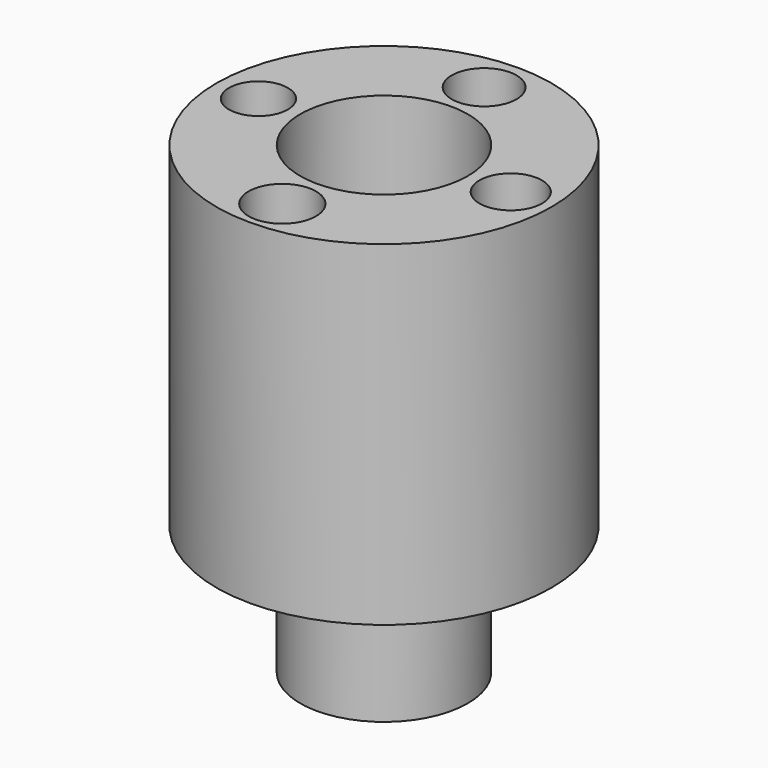
from build123d import *

# Parameters (mm, degrees)
F0_R     = 6.35
F0_R_2   = 4.0005
F1_DEPTH = 9.779
F0_R_3   = 12.7
F0_R_4   = 2.554087
F0_R_5   = 2.227925
F0_R_6   = 2.37351
F0_R_7   = 2.455152
F2_DEPTH = 25.4


with BuildPart() as f1:
    # F0 (on Top) → F1 (new body)
    with BuildSketch(Plane.XY):
        Circle(F0_R)
        Circle(F0_R_2, mode=Mode.SUBTRACT)
    extrude(amount=-F1_DEPTH)

    # F0 (on Top) → F2 (join)
    with BuildSketch(Plane.XY):
        Circle(F0_R_3)
        with Locations((0, -9.63263)):
            Circle(F0_R_4, mode=Mode.SUBTRACT)
        with Locations((-9.514348, 0)):
            Circle(F0_R_5, mode=Mode.SUBTRACT)
        Circle(F0_R, mode=Mode.SUBTRACT)
        with Locations((9.603927, 0)):
            Circle(F0_R_6, mode=Mode.SUBTRACT)
        with Locations((0, 9.485645)):
            Circle(F0_R_7, mode=Mode.SUBTRACT)
    extrude(amount=F2_DEPTH)


solid = f1.part
